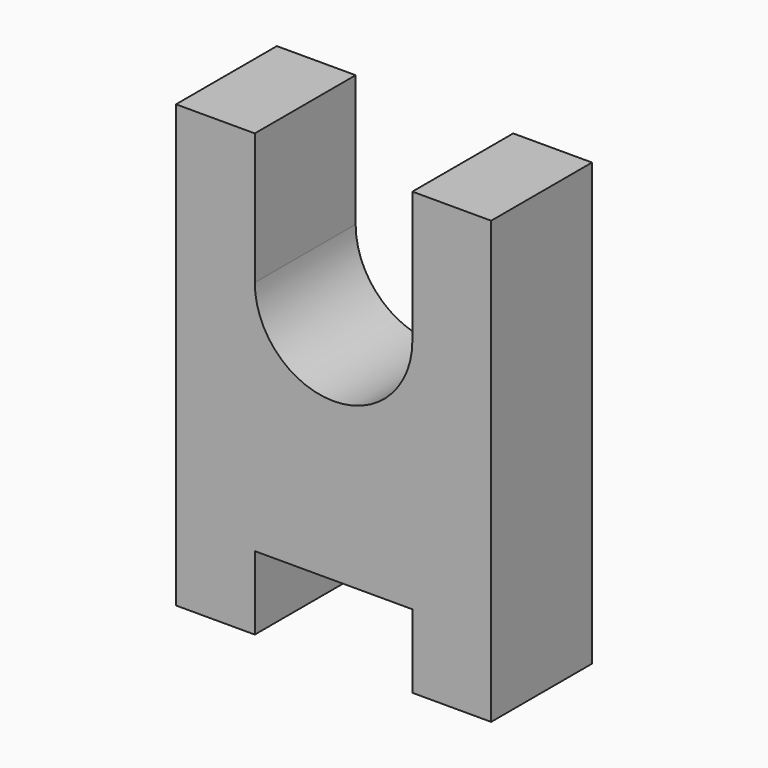
from build123d import *

# Parameters (mm, degrees)
F0_W     = 15
F0_H     = 14
F1_DEPTH = 24


with BuildPart() as f1:
    # F0 (on Front) → F1 (new body)
    with BuildSketch(Plane.XZ):
        with BuildLine():
            Line((-30, 25), (-30, -45))
            Line((-30, -45), (-15, -45))
            Line((-15, -45), (15, -45))
            Line((15, -45), (30, -45))
            Line((30, -45), (30, 25))
            Line((30, 25), (15, 25))
            Line((15, 25), (15, 0))
            ThreePointArc((15, 0), (0, -15), (-15, 0))
            Line((-15, 0), (-15, 25))
            Line((-15, 25), (-30, 25))
        make_face()
        with Locations((22.5, -52)):
            Rectangle(F0_W, F0_H)
        with Locations((-22.5, -52)):
            Rectangle(F0_W, F0_H)
    extrude(amount=F1_DEPTH)


solid = f1.part
